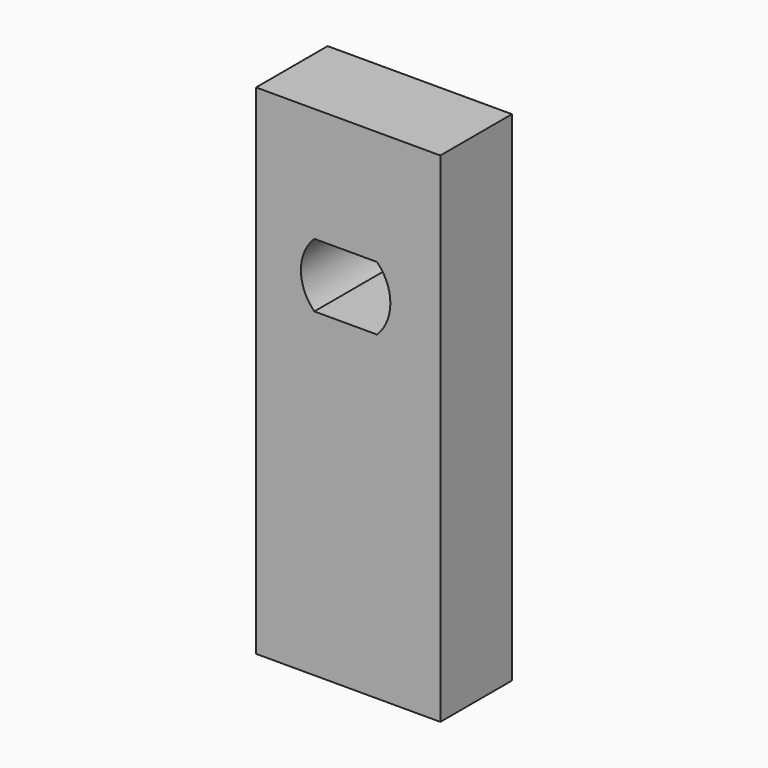
from build123d import *

# Parameters (mm, degrees)
F0_W     = 10.463874
F0_H     = 28.315185
F1_DEPTH = 5.08


with BuildPart() as f1:
    # F0 (on Front) → F1 (new body)
    with BuildSketch(Plane.XZ):
        with Locations((0.146339, -5.850271)):
            Rectangle(F0_W, F0_H)
        with BuildLine():
            ThreePointArc((1.778, 1.813923), (2.341764, 0.983738), (2.54, 0))
            ThreePointArc((2.54, 0), (2.341764, -0.983738), (1.778, -1.813923))
            ThreePointArc((1.778, -1.813923), (0, -2.54), (-1.778, -1.813923))
            ThreePointArc((-1.778, -1.813923), (-2.54, 0), (-1.778, 1.813923))
            ThreePointArc((-1.778, 1.813923), (0, 2.54), (1.778, 1.813923))
        make_face(mode=Mode.SUBTRACT)
        with BuildLine():
            Line((-1.778, 1.813923), (1.778, 1.813923))
            ThreePointArc((1.778, 1.813923), (0, 2.54), (-1.778, 1.813923))
        make_face()
        with BuildLine():
            ThreePointArc((-1.778, -1.813923), (0, -2.54), (1.778, -1.813923))
            Line((1.778, -1.813923), (-1.778, -1.813923))
        make_face()
    extrude(amount=F1_DEPTH)


solid = f1.part
